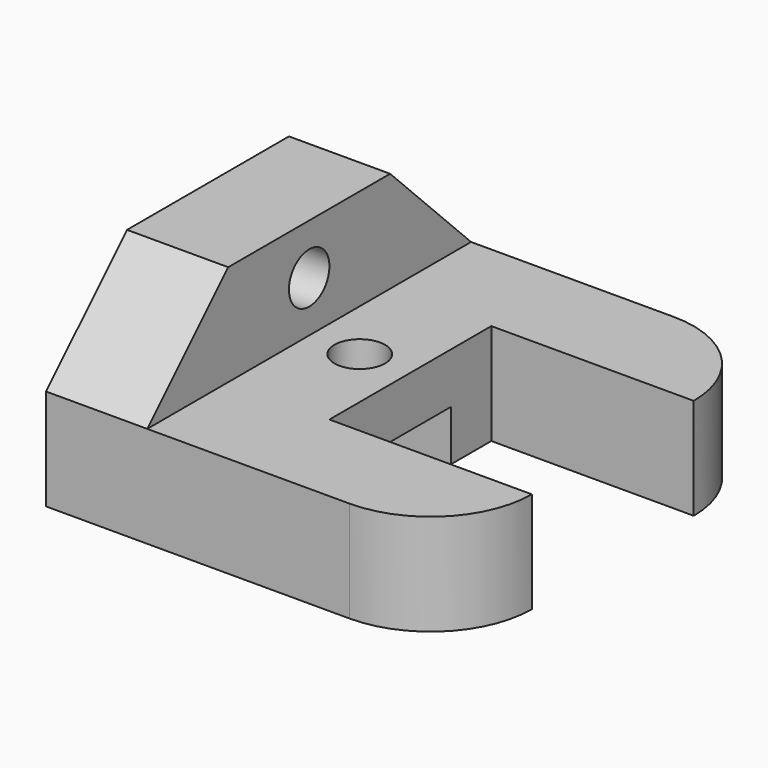
from build123d import *

# Parameters (mm, degrees)
F0_R     = 12.7
F1_DEPTH = 50.8
F2_R     = 12.7
F3_DEPTH = 50.8
F4_W     = 50.8
F4_H     = 25.4
F5_DEPTH = 101.6


with BuildPart() as f1:
    # F0 (on Top) → F1 (new body)
    with BuildSketch(Plane.XY):
        with BuildLine():
            Line((101.6, 50.8), (101.6, 152.4))
            Line((101.6, 152.4), (203.2, 152.4))
            ThreePointArc((203.2, 152.4), (188.321024, 188.321024), (152.4, 203.2))
            Line((152.4, 203.2), (0, 203.2))
            Line((0, 203.2), (0, 0))
            Line((0, 0), (152.4, 0))
            ThreePointArc((152.4, 0), (188.321024, 14.878976), (203.2, 50.8))
            Line((203.2, 50.8), (101.6, 50.8))
        make_face()
        with Locations((76.2, 101.6)):
            Circle(F0_R, mode=Mode.SUBTRACT)
    extrude(amount=F1_DEPTH)

    # F2 (on face) → F3 (join)
    with BuildSketch(Plane(origin=(0, 0, 0), x_dir=(0, -1, 0), z_dir=(-1, 0, 0))):
        Polygon((-152.4, 101.6), (-203.2, 50.8), (0, 50.8), (-50.8, 101.6), align=None)
        with Locations((-101.6, 76.2)):
            Circle(F2_R, mode=Mode.SUBTRACT)
    extrude(amount=-F3_DEPTH)

    # F4 (on face) → F5 (cut)
    with BuildSketch(Plane.YZ.offset(101.6)):
        with Locations((101.6, 12.7)):
            Rectangle(F4_W, F4_H)
    extrude(amount=-F5_DEPTH, mode=Mode.SUBTRACT)


solid = f1.part
